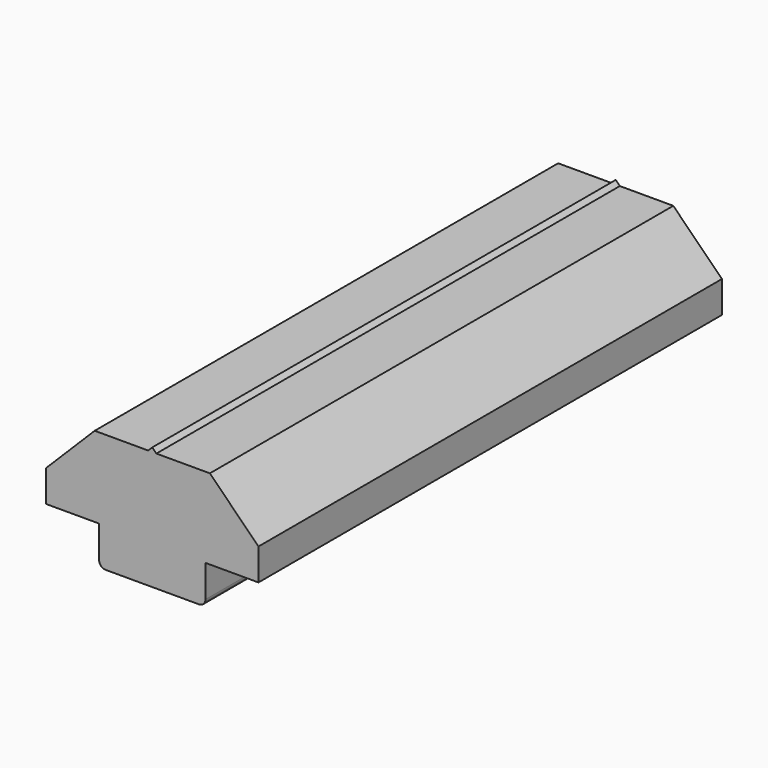
from build123d import *

# Parameters (mm, degrees)
F1_DEPTH = 30
F2_R     = 2
F3_DEPTH = 5


with BuildPart() as f1:
    # F0 (on Front) → F1 (new body)
    with BuildSketch(Plane.XZ):
        with BuildLine():
            Line((-50.474065, 27.053742), (-53.244065, 27.053742))
            Line((-53.244065, 27.053742), (-55.761366, 24.536442))
            Line((-55.761366, 24.536442), (-55.761366, 22.896442))
            Line((-55.761366, 22.896442), (-53.012501, 22.896442))
            Line((-53.012501, 22.896442), (-53.012501, 21.223109))
            ThreePointArc((-53.012501, 21.223109), (-52.916823, 20.99212), (-52.685834, 20.896442))
            Line((-52.685834, 20.896442), (-47.839168, 20.896442))
            ThreePointArc((-47.839168, 20.896442), (-47.60818, 20.99212), (-47.512501, 21.223109))
            Line((-47.512501, 21.223109), (-47.512501, 22.896442))
            Line((-47.512501, 22.896442), (-44.762501, 22.896442))
            Line((-44.762501, 22.896442), (-44.762501, 24.536442))
            Line((-44.762501, 24.536442), (-47.279801, 27.053742))
            Line((-47.279801, 27.053742), (-50.049801, 27.053742))
            Line((-50.049801, 27.053742), (-50.261933, 27.265874))
            Line((-50.261933, 27.265874), (-50.474065, 27.053742))
        make_face()
    extrude(amount=F1_DEPTH)

    # F2 (on face) → F3 (cut)
    with BuildSketch(Plane(origin=(0, 0, 20.896442), x_dir=(1, 0, 0), z_dir=(0, 0, -1))):
        with Locations((-50.049801, 15)):
            Circle(F2_R)
    extrude(amount=-F3_DEPTH, mode=Mode.SUBTRACT)


solid = f1.part
